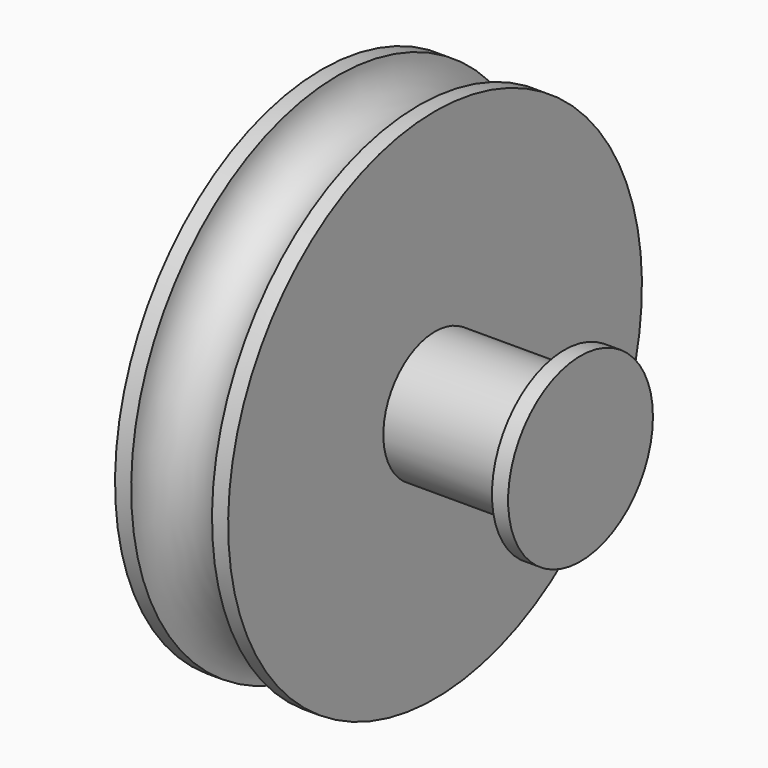
from build123d import *

# Parameters (mm, degrees)
F2_R     = 3.175
F3_DEPTH = 5.55625
F4_DEPTH = 6.35
F5_R     = 4.445
F5_R_2   = 3.175
F6_DEPTH = 0.79375
F7_D     = 3.7973
F7_DEPTH = 5.08
F7_TIP   = 1.1408240143


with BuildPart() as f1:
    # F0 (on Front) → F1 (revolve)
    with BuildSketch(Plane.XZ):
        with BuildLine():
            Line((0, 12.7), (0, 0))
            Line((0, 0), (5.55625, 0))
            Line((5.55625, 0), (5.55625, 12.7))
            Line((5.55625, 12.7), (4.7625, 12.7))
            ThreePointArc((4.7625, 12.7), (2.778125, 10.715625), (0.79375, 12.7))
            Line((0.79375, 12.7), (0, 12.7))
        make_face()
    revolve(axis=Axis((2.778125, 0, 0), (1, 0, 0)))

    # F2 (on face) → F3 (cut, through all)
    with BuildSketch(Plane.YZ.offset(5.55625)):
        Circle(F2_R)
    extrude(amount=-F3_DEPTH, mode=Mode.SUBTRACT)


with BuildPart() as f4:
    # F2 (on face) → F4 (new body)
    with BuildSketch(Plane.YZ.offset(5.55625)):
        Circle(F2_R)
    extrude(amount=F4_DEPTH)

    # F5 (on face) → F6 (join)
    with BuildSketch(Plane.YZ.offset(11.90625)):
        Circle(F5_R)
        Circle(F5_R_2, mode=Mode.SUBTRACT)
        Circle(F5_R_2)
    extrude(amount=F6_DEPTH)

    # F7
    with Locations(Plane(origin=(5.55625, 0, 0), x_dir=(0, 1, 0), z_dir=(-1, 0, 0))):
        with Locations((0, 0)):
            Hole(F7_D / 2, depth=F7_DEPTH)
            with Locations((0, 0, -(F7_DEPTH + F7_TIP / 2))):  # 118° drill point
                Cone(0, F7_D / 2, F7_TIP, mode=Mode.SUBTRACT)


solid = Compound([f1.part, f4.part])
